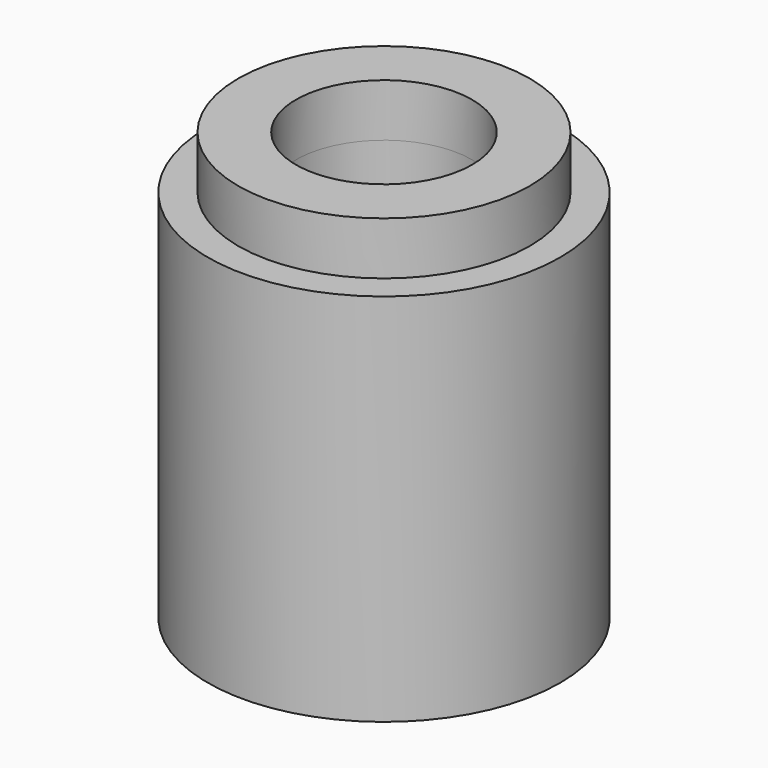
from build123d import *

# Parameters (mm, degrees)
F0_R     = 40
F1_DEPTH = 85
F2_R     = 20
F3_DEPTH = 88
F4_R     = 5
F5_R     = 33.0630902993
F5_R_2   = 20
F6_DEPTH = 12


with BuildPart() as f1:
    # F0 (on Top) → F1 (new body)
    with BuildSketch(Plane.XY):
        Circle(F0_R)
    extrude(amount=F1_DEPTH)

    # F2 (on face) → F3 (cut)
    with BuildSketch(Plane.XY.offset(85)):
        Circle(F2_R)
    extrude(amount=-F3_DEPTH, mode=Mode.SUBTRACT)

    # F4
    f4_edges = [f1.edges().sort_by_distance(p)[0] for p in [
        (-20, 0, 0),
    ]]
    fillet(f4_edges, radius=F4_R)

    # F5 (on face) → F6 (join)
    with BuildSketch(Plane.XY.offset(85)):
        Circle(F5_R)
        Circle(F5_R_2, mode=Mode.SUBTRACT)
    extrude(amount=F6_DEPTH)


solid = f1.part
